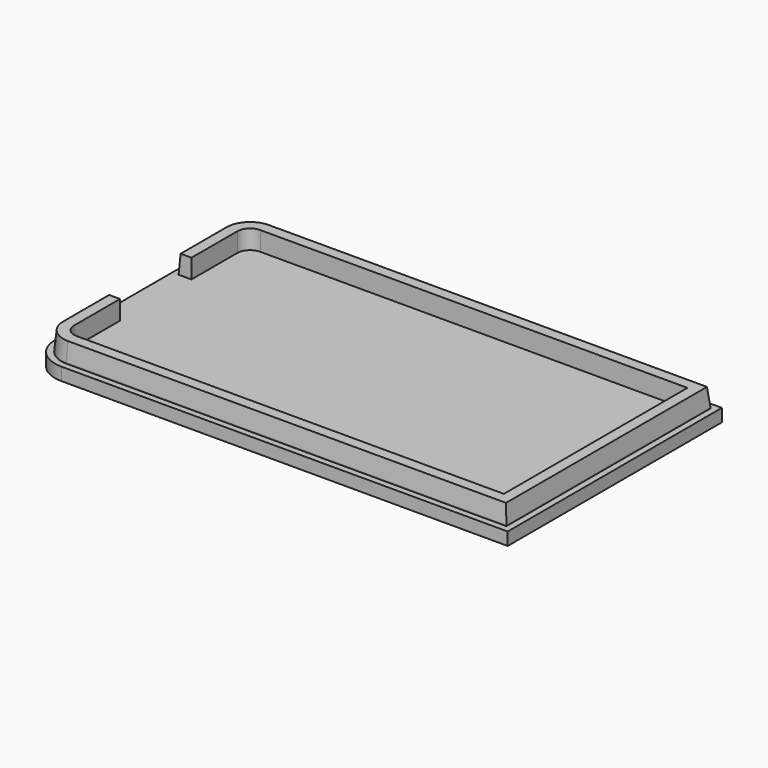
from build123d import *

# Parameters (mm, degrees)
F1_DEPTH = 2
F3_DEPTH = 5
F5_DEPTH = 3
F6_W     = 3.5266056657
F6_H     = 14.0113048255
F7_DEPTH = 3
F8_SIZE2 = 2.8543093363
F8_SIZE  = 0.3


with BuildPart() as f1:
    # F0 (on Top) → F1 (new body)
    with BuildSketch(Plane.XY):
        with BuildLine():
            Line((37.5, -21), (37.5, 21))
            Line((37.5, 21), (-32.5, 21))
            ThreePointArc((-32.5, 21), (-36.0355339059, 19.5355339059), (-37.5, 16))
            Line((-37.5, 16), (-37.5, -16))
            ThreePointArc((-37.5, -16), (-36.0355339059, -19.5355339059), (-32.5, -21))
            Line((-32.5, -21), (37.5, -21))
        make_face()
    extrude(amount=F1_DEPTH)

    # F2 (on Top) → F3 (join)
    with BuildSketch(Plane.XY):
        with BuildLine():
            ThreePointArc((-36.5, -16), (-35.3284271247, -18.8284271247), (-32.5, -20))
            Line((-32.5, -20), (36.5, -20))
            Line((36.5, -20), (36.5, 20))
            Line((36.5, 20), (-32.5, 20))
            ThreePointArc((-32.5, 20), (-35.3284271247, 18.8284271247), (-36.5, 16))
            Line((-36.5, 16), (-36.5, -16))
        make_face()
    extrude(amount=F3_DEPTH)

    # F4 (on face) → F5 (cut)
    with BuildSketch(Plane.XY.offset(5)):
        with BuildLine():
            ThreePointArc((-32.5, 18), (-33.9142135624, 17.4142135624), (-34.5, 16))
            Line((-34.5, 16), (-34.5, -16))
            ThreePointArc((-34.5, -16), (-33.9142135624, -17.4142135624), (-32.5, -18))
            Line((-32.5, -18), (34.5, -18))
            Line((34.5, -18), (34.5, 18))
            Line((34.5, 18), (-32.5, 18))
        make_face()
    extrude(amount=-F5_DEPTH, mode=Mode.SUBTRACT)

    # F6 (on face) → F7 (cut)
    with BuildSketch(Plane.XY.offset(5)):
        with Locations((-35.1931601763, 0)):
            Rectangle(F6_W, F6_H)
    extrude(amount=-F7_DEPTH, mode=Mode.SUBTRACT)

    # F8
    f8_edges = [f1.edges().sort_by_distance(p)[0] for p in [
        (-36.5, -11.502826, 5),
        (36.5, 0, 5),
        (2, 20, 5),
    ]]
    f8_side = f1.faces().sort_by_distance((2, 19.167594, 5))[0]
    chamfer(f8_edges, length=F8_SIZE, length2=F8_SIZE2, reference=f8_side)


solid = f1.part
